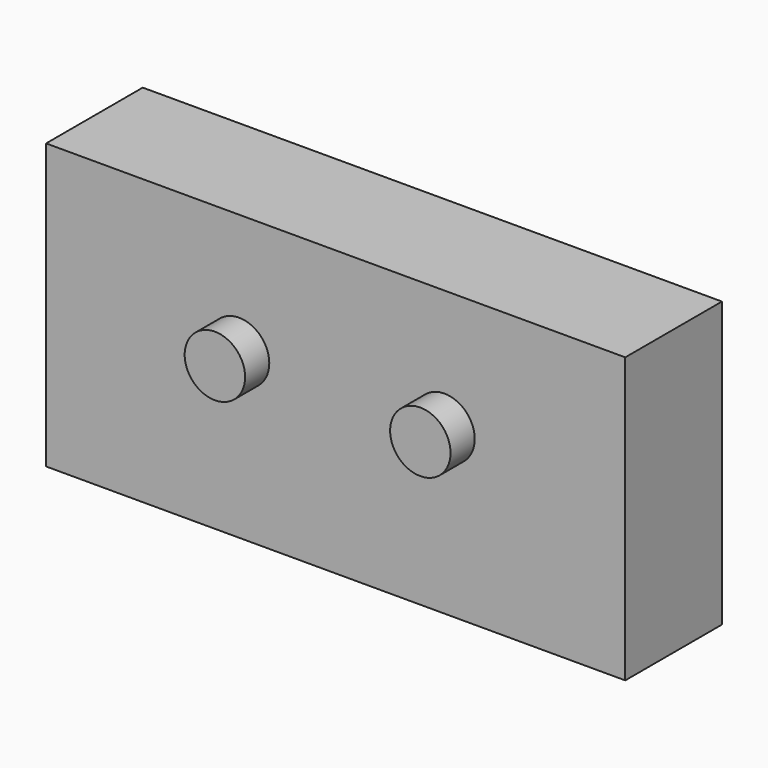
from build123d import *

# Parameters (mm, degrees)
F0_W     = 70.9361852596
F0_H     = 59.7819101843
F0_R     = 6.35
F1_DEPTH = 25.4
F2_DEPTH = 6.35
F3_DEPTH = 25.4
F4_DEPTH = 25.4


with BuildPart() as f1:
    # F0 (on Front) → F1 (new body)
    with BuildSketch(Plane.XZ):
        with Locations((1.6176216304, -4.4821556658)):
            Rectangle(F0_W, F0_H)
        with Locations((-18.6856686208, 0)):
            Circle(F0_R, mode=Mode.SUBTRACT)
        with Locations((24.4943313792, 0)):
            Circle(F0_R, mode=Mode.SUBTRACT)
        with Locations((-18.6856686208, 0)):
            Circle(F0_R)
        with Locations((24.4943313792, 0)):
            Circle(F0_R)
    extrude(amount=-F1_DEPTH)

    # F0 (on Front) → F2 (join)
    with BuildSketch(Plane.XZ):
        with Locations((-18.6856686208, 0)):
            Circle(F0_R)
        with Locations((24.4943313792, 0)):
            Circle(F0_R)
    extrude(amount=F2_DEPTH)

    # F3 (add): a face of the model
    f3_faces = [f1.faces().sort_by_distance(p)[0] for p in [
        (37.0857142603, 12.7, -4.4821556658),
    ]]
    extrude(f3_faces, amount=F3_DEPTH)

    # F4 (add): a face of the model
    f4_faces = [f1.faces().sort_by_distance(p)[0] for p in [
        (-33.8504709994, 12.7, -4.4821556658),
    ]]
    extrude(f4_faces, amount=F4_DEPTH)


solid = f1.part
